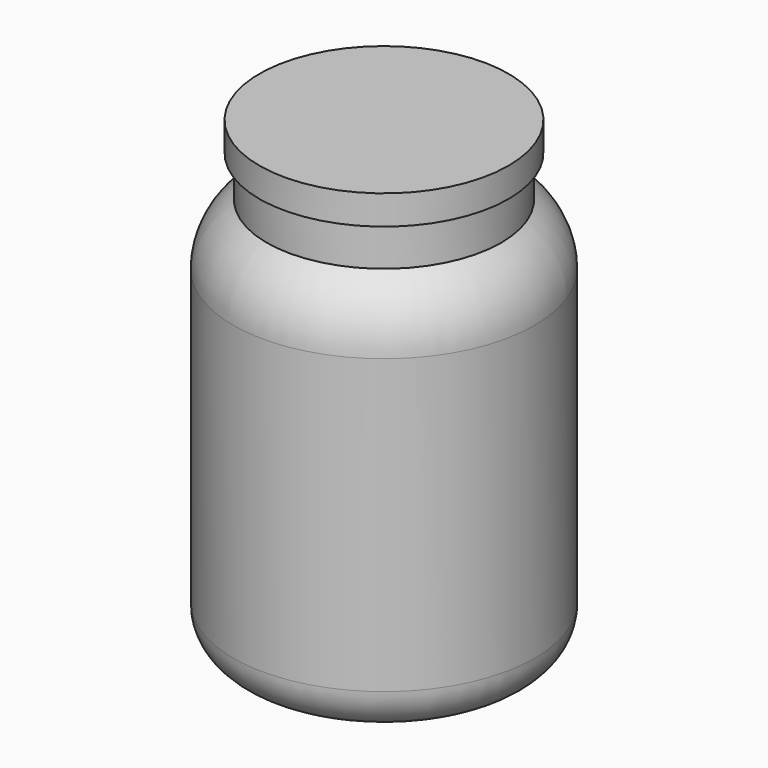
from build123d import *

# Parameters (mm, degrees)
SKETCH_R     = 51.5
PAD_DEPTH    = 140
FILLET_R     = 25
FILLET001_R  = 15
SKETCH001_R  = 40
PAD001_DEPTH = 30
SKETCH002_R  = 42.5
PAD002_DEPTH = 10


with BuildPart() as part:
    # Sketch → Pad (new body)
    with BuildSketch(Plane.XY):
        Circle(SKETCH_R)
    extrude(amount=PAD_DEPTH)

    # Fillet
    fillet_edges = [part.edges().sort_by_distance(p)[0] for p in [
        (-51.5, 0, 140),
    ]]
    fillet(fillet_edges, radius=FILLET_R)

    # Fillet001
    fillet001_edges = [part.edges().sort_by_distance(p)[0] for p in [
        (-51.5, 0, 0),
    ]]
    fillet(fillet001_edges, radius=FILLET001_R)

    # Sketch001 (on Face5 of Fillet001) → Pad001 (join)
    with BuildSketch(Plane.XY.offset(130)):
        Circle(SKETCH001_R)
    extrude(amount=PAD001_DEPTH)

    # Sketch002 (on Face6 of Pad001) → Pad002 (join)
    with BuildSketch(Plane.XY.offset(160)):
        Circle(SKETCH002_R)
    extrude(amount=-PAD002_DEPTH)


solid = part.part
